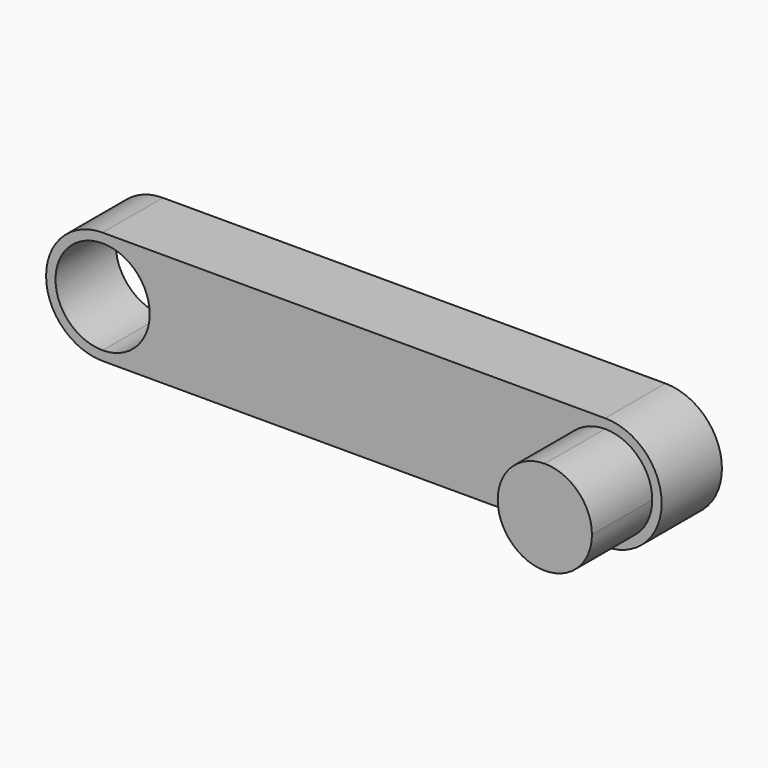
from build123d import *

# Parameters (mm, degrees)
F1_DEPTH = 203.2
F2_DEPTH = 406.4


with BuildPart() as f1:
    # F0 (on Front) → F1 (new body)
    with BuildSketch(Plane.XZ):
        with BuildLine():
            Line((-670.171326, 139.884379), (-670.171326, 114.484379))
            ThreePointArc((-670.171326, 114.484379), (-580.368765, 77.28694), (-543.171326, -12.515621))
            ThreePointArc((-543.171326, -12.515621), (-580.368765, -102.318182), (-670.171326, -139.515621))
            Line((-670.171326, -139.515621), (-670.171326, -164.915621))
            Line((-670.171326, -164.915621), (684.760069, -164.915621))
            Line((684.760069, -164.915621), (684.760069, -139.515621))
            ThreePointArc((684.760069, -139.515621), (557.760069, -12.515621), (684.760069, 114.484379))
            Line((684.760069, 114.484379), (684.760069, 139.884379))
            Line((684.760069, 139.884379), (-670.171326, 139.884379))
        make_face()
        with BuildLine():
            ThreePointArc((-670.171326, -139.515621), (-797.171326, -12.515621), (-670.171326, 114.484379))
            Line((-670.171326, 114.484379), (-670.171326, 139.884379))
            ThreePointArc((-670.171326, 139.884379), (-822.571326, -12.515621), (-670.171326, -164.915621))
            Line((-670.171326, -164.915621), (-670.171326, -139.515621))
        make_face()
        with BuildLine():
            ThreePointArc((684.760069, -164.915621), (837.160069, -12.515621), (684.760069, 139.884379))
            Line((684.760069, 139.884379), (684.760069, 114.484379))
            ThreePointArc((684.760069, 114.484379), (774.562631, 77.28694), (811.760069, -12.515621))
            ThreePointArc((811.760069, -12.515621), (774.562631, -102.318182), (684.760069, -139.515621))
            Line((684.760069, -139.515621), (684.760069, -164.915621))
        make_face()
    extrude(amount=F1_DEPTH)

    # F0 (on Front) → F2 (join)
    with BuildSketch(Plane.XZ):
        with BuildLine():
            ThreePointArc((811.760069, -12.515621), (774.562631, 77.28694), (684.760069, 114.484379))
            Line((684.760069, 114.484379), (684.760069, -139.515621))
            ThreePointArc((684.760069, -139.515621), (774.562631, -102.318182), (811.760069, -12.515621))
        make_face()
        with BuildLine():
            Line((684.760069, -139.515621), (684.760069, 114.484379))
            ThreePointArc((684.760069, 114.484379), (557.760069, -12.515621), (684.760069, -139.515621))
        make_face()
    extrude(amount=F2_DEPTH)


solid = f1.part
